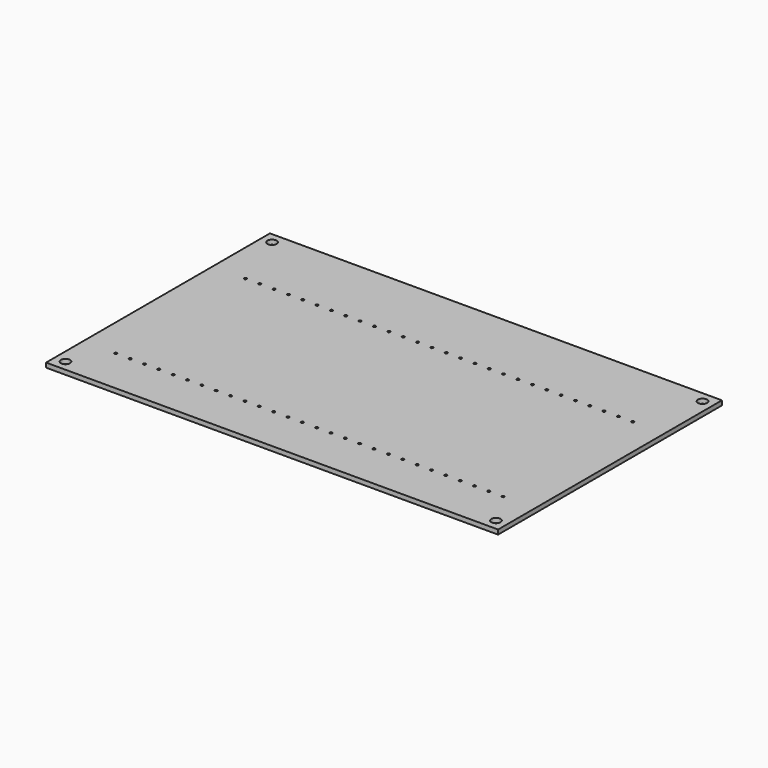
from build123d import *

# Parameters (mm, degrees)
F0_W       = 160.02
F0_H       = 99.06
F1_DEPTH   = 1.6002
F3_D       = 3.2639
F6_D       = 0.889
F6_ON_F5_D = 0.889


with BuildPart() as f1:
    # F0 (on Top) → F1 (new body)
    with BuildSketch(Plane.XY):
        with Locations((80.01, 49.53)):
            Rectangle(F0_W, F0_H)
    extrude(amount=F1_DEPTH)

    # F3 (through all)
    with Locations(Plane.XY.offset(1.6002)):
        with Locations((3.81, 95.25), (3.81, 3.81), (156.21, 3.81), (156.21, 95.25)):
            Hole(F3_D / 2)

    # F6 (through all)
    with Locations(Plane.XY.offset(1.6002)):
        with Locations((87.8332, 73.66), (108.1532, 73.66), (123.3932, 73.66), (143.7132, 73.66), (82.7532, 73.66), (148.7932, 73.66), (103.0732, 73.66), (118.3132, 73.66), (138.6332, 73.66), (97.9932, 73.66), (133.5532, 73.66), (62.4332, 73.66), (57.3532, 73.66), (52.2732, 73.66), (47.1932, 73.66), (42.1132, 73.66), (37.0332, 73.66), (31.9532, 73.66), (26.8732, 73.66), (21.7932, 73.66), (16.7132, 73.66), (11.6332, 73.66), (77.6732, 73.66), (72.5932, 73.66), (67.5132, 73.66), (92.9132, 73.66), (113.2332, 73.66), (128.4732, 73.66)):
            Hole(F6_D / 2)

    # F6 on F5 (through all)
    with Locations(Plane.XY.offset(1.6002)):
        with Locations((113.2332, 16.3068), (21.7932, 16.3068), (123.3932, 16.3068), (31.9532, 16.3068), (26.8732, 16.3068), (52.2732, 16.3068), (16.7132, 16.3068), (118.3132, 16.3068), (37.0332, 16.3068), (97.9932, 16.3068), (47.1932, 16.3068), (103.0732, 16.3068), (148.7932, 16.3068), (42.1132, 16.3068), (108.1532, 16.3068), (92.9132, 16.3068), (57.3532, 16.3068), (87.8332, 16.3068), (62.4332, 16.3068), (77.6732, 16.3068), (72.5932, 16.3068), (67.5132, 16.3068), (82.7532, 16.3068), (143.7132, 16.3068), (138.6332, 16.3068), (133.5532, 16.3068), (11.6332, 16.3068), (128.4732, 16.3068)):
            Hole(F6_ON_F5_D / 2)


solid = f1.part
